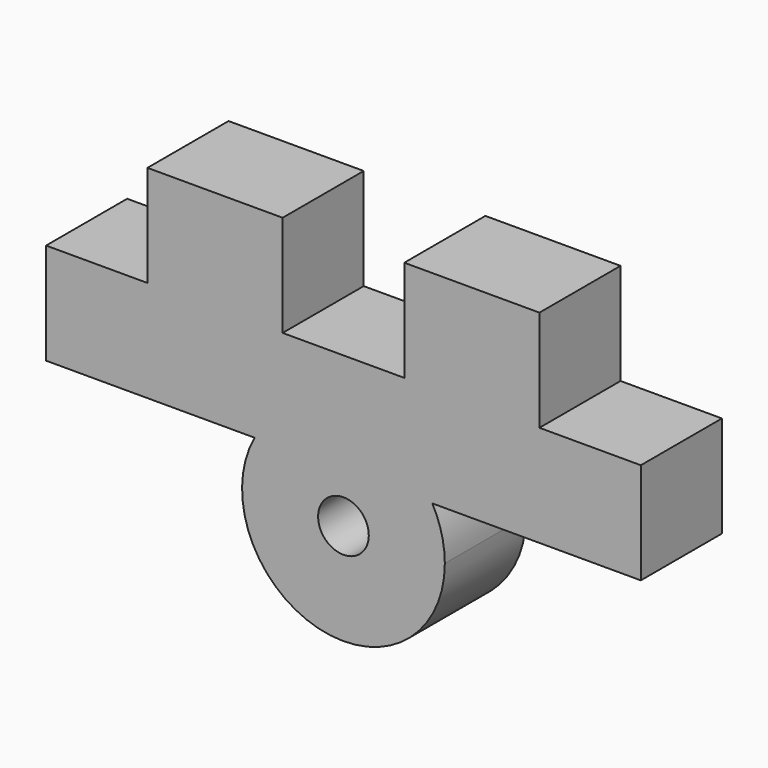
from build123d import *

# Parameters (mm, degrees)
F0_W     = 25.4
F0_H     = 19.05
F1_DEPTH = 19.05


with BuildPart() as f1:
    # F0 (on Front) → F1 (new body)
    with BuildSketch(Plane.XZ):
        with BuildLine():
            ThreePointArc((-16.695471328, 9.1740796342), (-4.7357032847, -18.4519813137), (19.05, 0))
            ThreePointArc((19.05, 0), (18.4519813137, 4.7357032847), (16.695471328, 9.1740796342))
            Line((16.695471328, 9.1740796342), (0, 9.1740796342))
            Line((0, 9.1740796342), (-16.695471328, 9.1740796342))
        make_face()
        with BuildLine():
            ThreePointArc((4.7625, 0), (-3.3675960454, -3.3675960454), (0, 4.7625))
            ThreePointArc((0, 4.7625), (3.3675960454, 3.3675960454), (4.7625, 0))
        make_face(mode=Mode.SUBTRACT)
        with BuildLine():
            Line((0, 9.1740796342), (16.695471328, 9.1740796342))
            ThreePointArc((16.695471328, 9.1740796342), (9.6988732069, 16.3961690195), (0, 19.05))
            Line((0, 19.05), (0, 9.1740796342))
        make_face()
        with BuildLine():
            ThreePointArc((0, 19.05), (9.6988732069, 16.3961690195), (16.695471328, 9.1740796342))
            Line((16.695471328, 9.1740796342), (55.88, 9.1740796342))
            Line((55.88, 9.1740796342), (55.88, 28.2240796342))
            Line((55.88, 28.2240796342), (36.83, 28.2240796342))
            Line((36.83, 28.2240796342), (11.43, 28.2240796342))
            Line((11.43, 28.2240796342), (-11.43, 28.2240796342))
            Line((-11.43, 28.2240796342), (-36.83, 28.2240796342))
            Line((-36.83, 28.2240796342), (-55.88, 28.2240796342))
            Line((-55.88, 28.2240796342), (-55.88, 9.1740796342))
            Line((-55.88, 9.1740796342), (-16.695471328, 9.1740796342))
            ThreePointArc((-16.695471328, 9.1740796342), (-9.6988732069, 16.3961690195), (0, 19.05))
        make_face()
        with BuildLine():
            ThreePointArc((0, 19.05), (-9.6988732069, 16.3961690195), (-16.695471328, 9.1740796342))
            Line((-16.695471328, 9.1740796342), (0, 9.1740796342))
            Line((0, 9.1740796342), (0, 19.05))
        make_face()
        with Locations((24.13, 37.7490796342)):
            Rectangle(F0_W, F0_H)
        with Locations((-24.13, 37.7490796342)):
            Rectangle(F0_W, F0_H)
    extrude(amount=F1_DEPTH)


solid = f1.part
